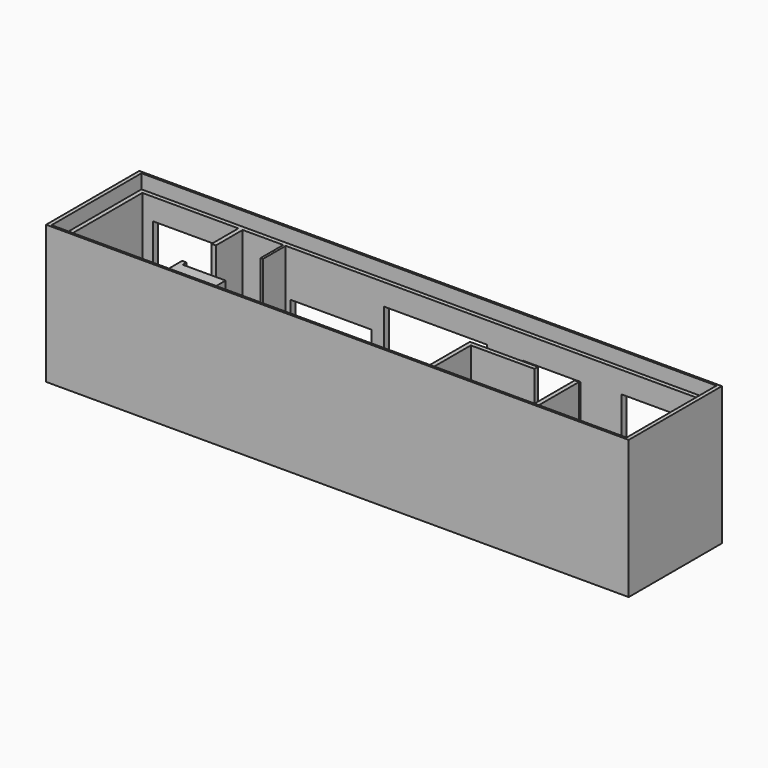
from build123d import *

# Parameters (mm, degrees)
F0_W      = 12192
F0_H      = 2438
F0_W_2    = 12032
F0_H_2    = 2352
F1_DEPTH  = 2896
F2_DEPTH  = 50
F3_W      = 11852
F3_H      = 2172
F4_DEPTH  = 2550
F5_W      = 90
F5_H      = 701
F5_H_2    = 1402
F5_W_2    = 50
F5_H_3    = 600
F6_DEPTH  = 2550
F5_W_3    = 1800
F7_DEPTH  = 1000
F5_W_4    = 900
F8_DEPTH  = 2550
F9_W      = 2160
F9_H      = 2100
F9_W_2    = 1700
F9_H_2    = 500
F9_W_3    = 1560
F9_W_4    = 1200
F9_H_3    = 1210
F10_DEPTH = 135


with BuildPart() as f1:
    # F0 (on Top) → F1 (new body)
    with BuildSketch(Plane.XY):
        Rectangle(F0_W, F0_H)
        Rectangle(F0_W_2, F0_H_2, mode=Mode.SUBTRACT)
    extrude(amount=F1_DEPTH)

    # F0 (on Top) → F2 (join)
    with BuildSketch(Plane.XY):
        Rectangle(F0_W_2, F0_H_2)
    extrude(amount=F2_DEPTH)

    # F3 (on face) → F4 (join)
    with BuildSketch(Plane.XY.offset(50)):
        Polygon((-5926, 1176), (-6016, 1176), (-6016, -1176), (-5926, -1176), (5926, -1176), (6016, -1176), (6016, 1176), align=None)
        Rectangle(F3_W, F3_H, mode=Mode.SUBTRACT)
    extrude(amount=F4_DEPTH)

    # F5 (on face) → F6 (join)
    with BuildSketch(Plane.XY.offset(50)):
        with Locations((-3871, 735.5)):
            Rectangle(F5_W, F5_H)
        Polygon((-3916, -385), (-3916, -1086), (-3826, -1086), (-3826, -486), (-3826, -385), align=None)
        Polygon((1546, 316), (1546, -1086), (1636, -1086), (1636, 226), (2966, 226), (2966, 316), (1636, 316), align=None)
        with Locations((3781, -385)):
            Rectangle(F5_W, F5_H_2)
        with Locations((-2951, 786)):
            Rectangle(F5_W_2, F5_H_3)
    extrude(amount=F6_DEPTH)

    # F5 (on face) → F7 (join)
    with BuildSketch(Plane.XY.offset(50)):
        with Locations((-2026, -786)):
            Rectangle(F5_W_3, F5_H_3)
        with Locations((-2026, 786)):
            Rectangle(F5_W_3, F5_H_3)
    extrude(amount=F7_DEPTH)

    # F5 (on face) → F8 (join)
    with BuildSketch(Plane.XY.offset(50)):
        with Locations((-3376, -786)):
            Rectangle(F5_W_4, F5_H_3)
    extrude(amount=F8_DEPTH)

    # F9 (on face) → F10 (cut)
    with BuildSketch(Plane(origin=(0, 1219, 0), x_dir=(-1, 0, 0), z_dir=(0, 1, 0))):
        with Locations((-210, 1100)):
            Rectangle(F9_W, F9_H)
        with Locations((1976, 1390)):
            Rectangle(F9_W_2, F9_H_2)
        with Locations((-4876, 1100)):
            Rectangle(F9_W_3, F9_H)
        with Locations((4921, 1100)):
            Rectangle(F9_W_3, F9_H)
        with Locations((-2641, 1495)):
            Rectangle(F9_W_4, F9_H_3)
    extrude(amount=-F10_DEPTH, mode=Mode.SUBTRACT)


solid = f1.part
